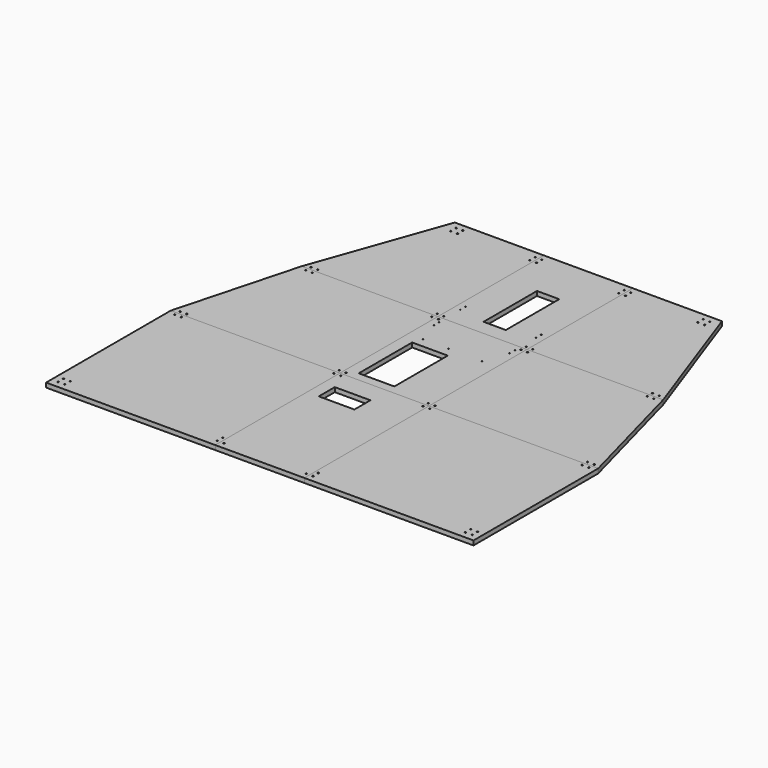
from build123d import *

# Parameters (mm, degrees)
F0_W      = 400
F0_H      = 700
F0_R      = 3
F0_W_2    = 160
F0_H_2    = 89.953826
F1_DEPTH  = 20
F2_R      = 3
F3_DEPTH  = 20
F4_DEPTH  = 20
F5_W      = 400
F5_H      = 550
F5_R      = 3
F5_W_2    = 160
F5_H_2    = 300
F5_R_2    = 2.05
F6_DEPTH  = 20
F7_W      = 400
F7_H      = 595
F7_R      = 3
F7_R_2    = 2.05
F7_W_2    = 100
F7_H_2    = 300
F8_DEPTH  = 20
F9_W      = 760
F9_H      = 700
F9_R      = 3
F10_DEPTH = 20


with BuildPart() as f1:
    # F0 (on Top) → F1 (new body)
    with BuildSketch(Plane.XY):
        Rectangle(F0_W, F0_H)
        with Locations((-185, -320)):
            Circle(F0_R, mode=Mode.SUBTRACT)
        with Locations((185, -320)):
            Circle(F0_R, mode=Mode.SUBTRACT)
        with Locations((-185, 335)):
            Circle(F0_R, mode=Mode.SUBTRACT)
        with Locations((-67.5, 210.649043)):
            Rectangle(F0_W_2, F0_H_2, mode=Mode.SUBTRACT)
        with Locations((185, 335)):
            Circle(F0_R, mode=Mode.SUBTRACT)
    extrude(amount=F1_DEPTH)


with BuildPart() as f3:
    # F2 (on Top) → F3 (new body)
    with BuildSketch(Plane.XY):
        Polygon((-200, 350), (-200, 900), (-812, 900), (-960, 350), align=None)
        with Locations((-930, 365)):
            Circle(F2_R, mode=Mode.SUBTRACT)
        with Locations((-900, 365)):
            Circle(F2_R, mode=Mode.SUBTRACT)
        with Locations((-215, 365)):
            Circle(F2_R, mode=Mode.SUBTRACT)
        with Locations((-782, 885)):
            Circle(F2_R, mode=Mode.SUBTRACT)
        with Locations((-752, 885)):
            Circle(F2_R, mode=Mode.SUBTRACT)
        with Locations((-215, 885)):
            Circle(F2_R, mode=Mode.SUBTRACT)
        Polygon((812, 900), (200, 900), (200, 350), (960, 350), align=None)
        with Locations((215, 365)):
            Circle(F2_R, mode=Mode.SUBTRACT)
        with Locations((900, 365)):
            Circle(F2_R, mode=Mode.SUBTRACT)
        with Locations((930, 365)):
            Circle(F2_R, mode=Mode.SUBTRACT)
        with Locations((215, 885)):
            Circle(F2_R, mode=Mode.SUBTRACT)
        with Locations((752, 885)):
            Circle(F2_R, mode=Mode.SUBTRACT)
        with Locations((782, 885)):
            Circle(F2_R, mode=Mode.SUBTRACT)
    extrude(amount=F3_DEPTH)


with BuildPart() as f4:
    # F2 (on Top) → F4 (new body)
    with BuildSketch(Plane.XY):
        Polygon((-812, 900), (-200, 900), (-200, 1495), (-600, 1495), align=None)
        with Locations((-782, 915)):
            Circle(F2_R, mode=Mode.SUBTRACT)
        with Locations((-752, 915)):
            Circle(F2_R, mode=Mode.SUBTRACT)
        with Locations((-215, 915)):
            Circle(F2_R, mode=Mode.SUBTRACT)
        with Locations((-570, 1435)):
            Circle(F2_R, mode=Mode.SUBTRACT)
        with Locations((-540, 1435)):
            Circle(F2_R, mode=Mode.SUBTRACT)
        with Locations((-570, 1465)):
            Circle(F2_R, mode=Mode.SUBTRACT)
        with Locations((-540, 1465)):
            Circle(F2_R, mode=Mode.SUBTRACT)
        with Locations((-215, 1435)):
            Circle(F2_R, mode=Mode.SUBTRACT)
        with Locations((-215, 1465)):
            Circle(F2_R, mode=Mode.SUBTRACT)
        Polygon((600, 1495), (200, 1495), (200, 900), (812, 900), align=None)
        with Locations((215, 915)):
            Circle(F2_R, mode=Mode.SUBTRACT)
        with Locations((752, 915)):
            Circle(F2_R, mode=Mode.SUBTRACT)
        with Locations((782, 915)):
            Circle(F2_R, mode=Mode.SUBTRACT)
        with Locations((215, 1435)):
            Circle(F2_R, mode=Mode.SUBTRACT)
        with Locations((215, 1465)):
            Circle(F2_R, mode=Mode.SUBTRACT)
        with Locations((540, 1435)):
            Circle(F2_R, mode=Mode.SUBTRACT)
        with Locations((570, 1435)):
            Circle(F2_R, mode=Mode.SUBTRACT)
        with Locations((540, 1465)):
            Circle(F2_R, mode=Mode.SUBTRACT)
        with Locations((570, 1465)):
            Circle(F2_R, mode=Mode.SUBTRACT)
    extrude(amount=F4_DEPTH)


with BuildPart() as f6:
    # F5 (on Top) → F6 (new body)
    with BuildSketch(Plane.XY):
        with Locations((0, 625)):
            Rectangle(F5_W, F5_H)
        with Locations((-185, 365)):
            Circle(F5_R, mode=Mode.SUBTRACT)
        with Locations((-67.5, 540)):
            Rectangle(F5_W_2, F5_H_2, mode=Mode.SUBTRACT)
        with Locations((185, 365)):
            Circle(F5_R, mode=Mode.SUBTRACT)
        with Locations((-132.5, 731.5)):
            Circle(F5_R_2, mode=Mode.SUBTRACT)
        with Locations((-17.5, 731.5)):
            Circle(F5_R_2, mode=Mode.SUBTRACT)
        with Locations((-170, 840)):
            Circle(F5_R_2, mode=Mode.SUBTRACT)
        with Locations((-185, 885)):
            Circle(F5_R, mode=Mode.SUBTRACT)
        with Locations((-170, 870)):
            Circle(F5_R_2, mode=Mode.SUBTRACT)
        with Locations((132.5, 731.5)):
            Circle(F5_R_2, mode=Mode.SUBTRACT)
        with Locations((170, 840)):
            Circle(F5_R_2, mode=Mode.SUBTRACT)
        with Locations((170, 870)):
            Circle(F5_R_2, mode=Mode.SUBTRACT)
        with Locations((185, 885)):
            Circle(F5_R, mode=Mode.SUBTRACT)
    extrude(amount=F6_DEPTH)


with BuildPart() as f8:
    # F7 (on Top) → F8 (new body)
    with BuildSketch(Plane.XY):
        with Locations((0, 1197.5)):
            Rectangle(F7_W, F7_H)
        with Locations((-185, 915)):
            Circle(F7_R, mode=Mode.SUBTRACT)
        with Locations((-170, 988)):
            Circle(F7_R_2, mode=Mode.SUBTRACT)
        with Locations((-170, 1018)):
            Circle(F7_R_2, mode=Mode.SUBTRACT)
        with Locations((185, 915)):
            Circle(F7_R, mode=Mode.SUBTRACT)
        with Locations((170, 988)):
            Circle(F7_R_2, mode=Mode.SUBTRACT)
        with Locations((170, 1018)):
            Circle(F7_R_2, mode=Mode.SUBTRACT)
        with Locations((0, 1119.066834)):
            Rectangle(F7_W_2, F7_H_2, mode=Mode.SUBTRACT)
        with Locations((-185, 1435)):
            Circle(F7_R, mode=Mode.SUBTRACT)
        with Locations((-185, 1465)):
            Circle(F7_R, mode=Mode.SUBTRACT)
        with Locations((185, 1435)):
            Circle(F7_R, mode=Mode.SUBTRACT)
        with Locations((185, 1465)):
            Circle(F7_R, mode=Mode.SUBTRACT)
    extrude(amount=F8_DEPTH)


with BuildPart() as f10:
    # F9 (on Top) → F10 (new body)
    with BuildSketch(Plane.XY):
        with Locations((-580, 0)):
            Rectangle(F9_W, F9_H)
        with Locations((-930, -320)):
            Circle(F9_R, mode=Mode.SUBTRACT)
        with Locations((-900, -320)):
            Circle(F9_R, mode=Mode.SUBTRACT)
        with Locations((-930, -290)):
            Circle(F9_R, mode=Mode.SUBTRACT)
        with Locations((-900, -290)):
            Circle(F9_R, mode=Mode.SUBTRACT)
        with Locations((-215, -320)):
            Circle(F9_R, mode=Mode.SUBTRACT)
        with Locations((-215, -290)):
            Circle(F9_R, mode=Mode.SUBTRACT)
        with Locations((-930, 335)):
            Circle(F9_R, mode=Mode.SUBTRACT)
        with Locations((-900, 335)):
            Circle(F9_R, mode=Mode.SUBTRACT)
        with Locations((-215, 335)):
            Circle(F9_R, mode=Mode.SUBTRACT)
        with Locations((580, 0)):
            Rectangle(F9_W, F9_H)
        with Locations((215, -320)):
            Circle(F9_R, mode=Mode.SUBTRACT)
        with Locations((215, -290)):
            Circle(F9_R, mode=Mode.SUBTRACT)
        with Locations((900, -320)):
            Circle(F9_R, mode=Mode.SUBTRACT)
        with Locations((930, -320)):
            Circle(F9_R, mode=Mode.SUBTRACT)
        with Locations((900, -290)):
            Circle(F9_R, mode=Mode.SUBTRACT)
        with Locations((930, -290)):
            Circle(F9_R, mode=Mode.SUBTRACT)
        with Locations((215, 335)):
            Circle(F9_R, mode=Mode.SUBTRACT)
        with Locations((900, 335)):
            Circle(F9_R, mode=Mode.SUBTRACT)
        with Locations((930, 335)):
            Circle(F9_R, mode=Mode.SUBTRACT)
    extrude(amount=F10_DEPTH)


solid = Compound([f1.part, f3.part, f4.part, f6.part, f8.part, f10.part])
